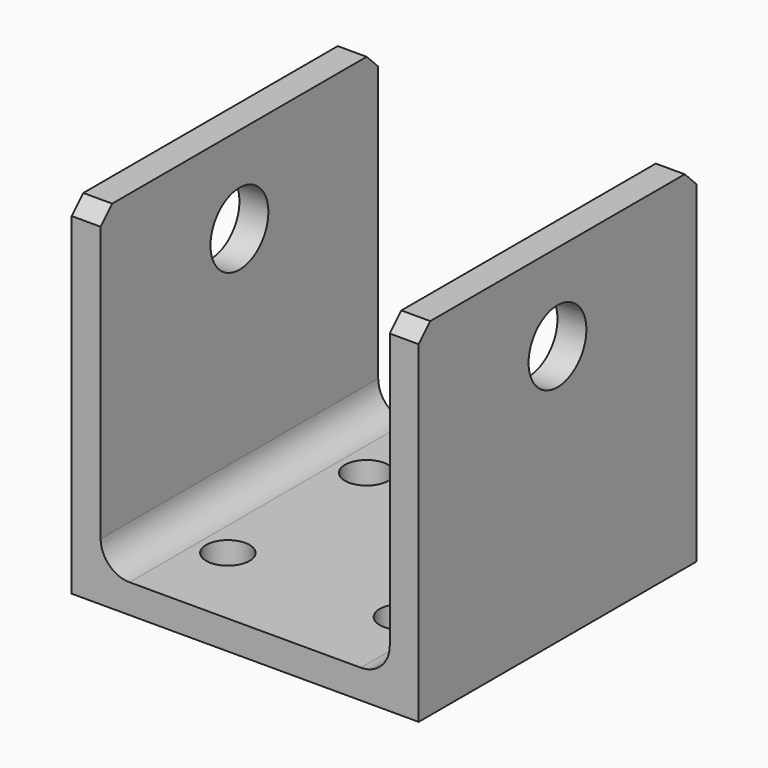
from build123d import *

# Parameters (mm, degrees)
F1_DEPTH = 76.2
F3_D     = 15.875
F4_SIZE  = 3.175
F6_D     = 9.525


with BuildPart() as f1:
    # F0 (on Front) → F1 (new body)
    with BuildSketch(Plane.XZ):
        with BuildLine():
            Line((-31.750001, 38.1), (-38.1, 38.1))
            Line((-38.1, 38.1), (-38.1, -38.1))
            Line((-38.1, -38.1), (38.1, -38.1))
            Line((38.1, -38.1), (38.1, 38.1))
            Line((38.1, 38.1), (31.75, 38.1))
            Line((31.75, 38.1), (31.75, -25.400001))
            ThreePointArc((31.75, -25.400001), (29.890128, -29.890129), (25.4, -31.750001))
            Line((25.4, -31.750001), (-25.400001, -31.750001))
            ThreePointArc((-25.400001, -31.750001), (-29.890129, -29.890129), (-31.750001, -25.400001))
            Line((-31.750001, -25.400001), (-31.750001, 38.1))
        make_face()
    extrude(amount=F1_DEPTH)

    # F3 (through all)
    with Locations(Plane.YZ.offset(38.1)):
        with Locations((-38.1, 19.05)):
            Hole(F3_D / 2)

    # F4
    f4_edges = [f1.edges().sort_by_distance(p)[0] for p in [
        (-34.925001, 0, 38.1),
        (34.925, 0, 38.1),
        (34.925, -76.2, 38.1),
        (-34.925001, -76.2, 38.1),
    ]]
    chamfer(f4_edges, length=F4_SIZE)

    # F6 (through all)
    with Locations(Plane(origin=(0, 0, -38.1), x_dir=(1, 0, 0), z_dir=(0, 0, -1))):
        with Locations((-19.05, 57.15), (19.05, 57.15), (-19.05, 19.05), (19.05, 19.05)):
            Hole(F6_D / 2)


solid = f1.part
